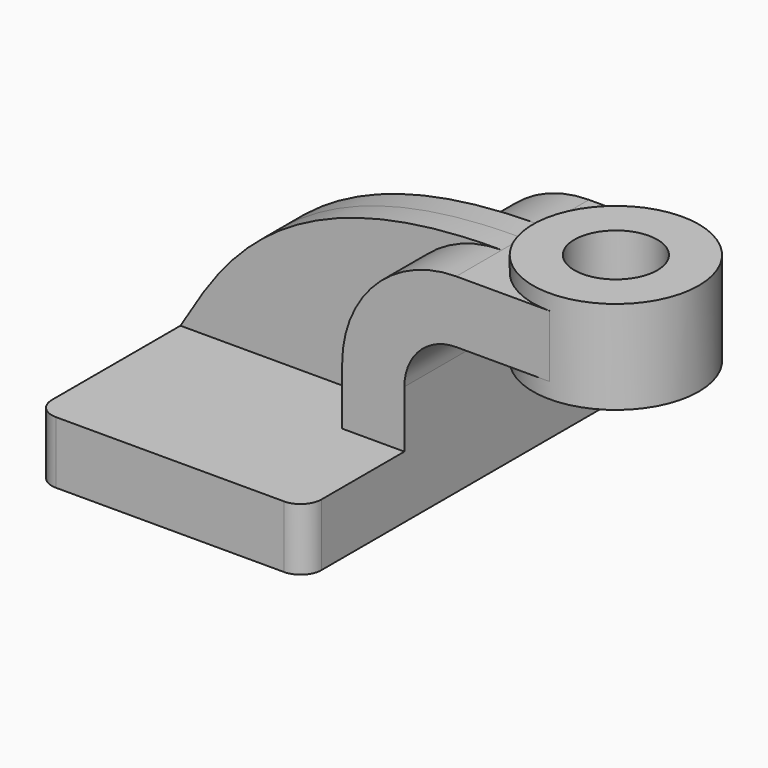
from build123d import *

# Parameters (mm, degrees)
F1_DEPTH = 63.5
F0_W     = 25.4
F0_H     = 19.05
F2_DEPTH = 25.4
F3_DEPTH = 7.9375
F5_R     = 6.35
F6_R     = 12.7
F7_DEPTH = 76.201


with BuildPart() as f1:
    # F0 (on Front) → F1 (new body, symmetric)
    with BuildSketch(Plane.XZ):
        Polygon((41.275, -9.525), (41.275, 9.525), (22.225, 9.525), (-41.275, 9.525), (-41.275, -9.525), align=None)
    extrude(amount=F1_DEPTH, both=True)

    # F0 (on Front) → F2 (join, symmetric)
    with BuildSketch(Plane.XZ):
        with BuildLine():
            Line((22.225, 9.525), (41.275, 9.525))
            Line((41.275, 9.525), (41.275, 27.0002))
            ThreePointArc((41.275, 27.0002), (45.92468, 38.22552), (57.15, 42.8752))
            Line((57.15, 42.8752), (60.325, 42.8752))
            Line((60.325, 42.8752), (60.325, 61.9252))
            Line((60.325, 61.9252), (57.15, 61.9252))
            ThreePointArc((57.15, 61.9252), (32.454296, 51.695904), (22.225, 27.0002))
            Line((22.225, 27.0002), (22.225, 9.525))
        make_face()
        with Locations((73.025, 52.4002)):
            Rectangle(F0_W, F0_H)
    extrude(amount=F2_DEPTH, both=True)

    # F0 (on Front) → F3 (join, symmetric)
    with BuildSketch(Plane.XZ):
        with BuildLine():
            Line((-41.275, 9.525), (22.225, 9.525))
            Line((22.225, 9.525), (22.225, 27.0002))
            ThreePointArc((22.225, 27.0002), (32.454296, 51.695904), (57.15, 61.9252))
            add(Edge.make_bspline(
                [(-41.275, 9.525), (-29.649258, 28.44544), (-12.466568, 62.335622), (57.15, 61.9252)],
                knots=[0, 0, 0, 0, 111.504536, 111.504536, 111.504536, 111.504536], degree=3))
        make_face()
    extrude(amount=F3_DEPTH, both=True)

    # F0 (on Front) → F4 (revolve)
    with BuildSketch(Plane.XZ):
        Polygon((85.725, 61.9252), (85.725, 42.8752), (85.725, 38.1), (111.125, 38.1), (111.125, 66.675), (85.725, 66.675), align=None)
    revolve(axis=Axis((85.725, 0, 52.4002), (0, 0, -1)))

    # F5
    f5_edges = [f1.edges().sort_by_distance(p)[0] for p in [
        (41.275, -63.5, 0),
        (-41.275, -63.5, 0),
        (-41.275, 63.5, 0),
        (41.275, 63.5, 0),
    ]]
    fillet(f5_edges, radius=F5_R)

    # F6 (on face) → F7 (cut, through all)
    with BuildSketch(Plane.XY.offset(66.675)):
        with Locations((85.725, 0)):
            Circle(F6_R)
    extrude(amount=-F7_DEPTH, mode=Mode.SUBTRACT)


solid = f1.part
